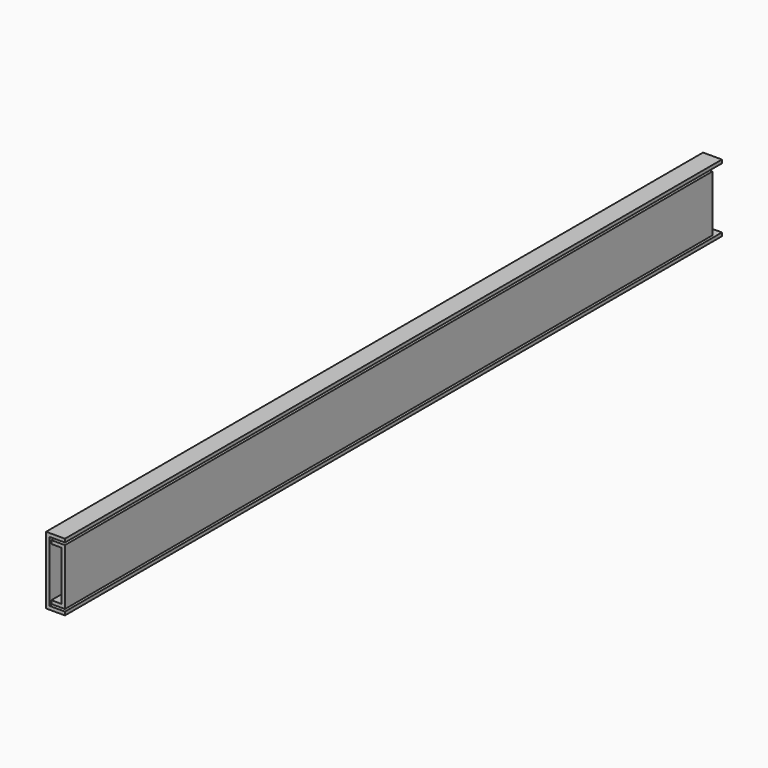
from build123d import *

# Parameters (mm, degrees)
F1_DEPTH = 276.225
F3_DEPTH = 544.5125


with BuildPart() as f1:
    # F0 (on Front) → F1 (new body, symmetric)
    with BuildSketch(Plane.XZ):
        Polygon((0, -20.447), (0, 20.447), (10.414, 20.447), (10.414, 22.733), (-2.286, 22.733), (-2.286, -22.733), (10.414, -22.733), (10.414, -20.447), align=None)
    extrude(amount=F1_DEPTH, both=True)


with BuildPart() as f3:
    # F2 (on face) → F3 (new body)
    with BuildSketch(Plane.XZ.offset(276.225)):
        Polygon((10.414, 18.923), (1.27, 18.923), (1.27, 16.637), (8.128, 16.637), (8.128, -16.637), (1.27, -16.637), (1.27, -18.923), (10.414, -18.923), align=None)
    extrude(amount=-F3_DEPTH)


solid = Compound([f1.part, f3.part])
